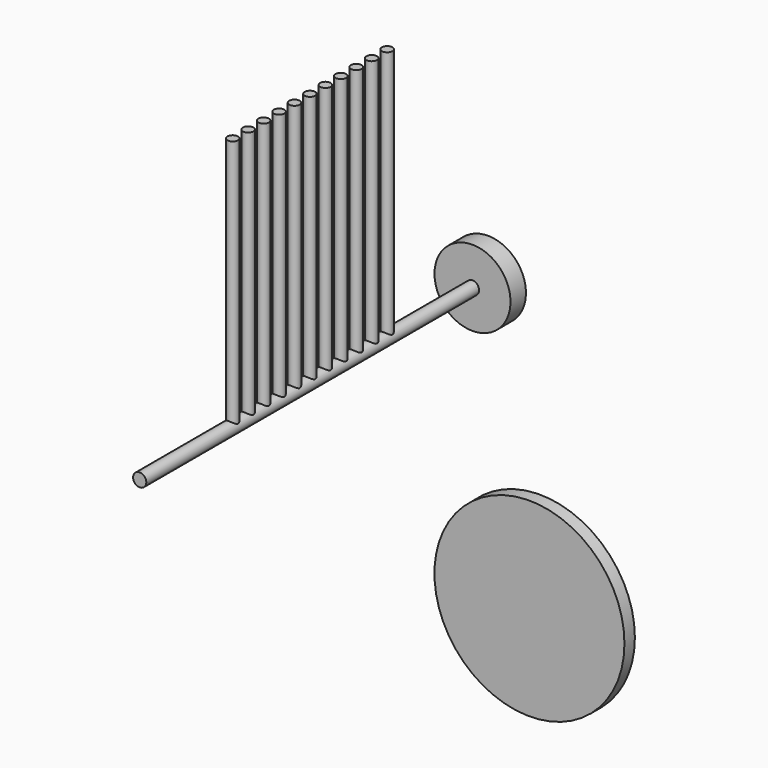
from build123d import *

# Parameters (mm, degrees)
F0_R     = 3.470275
F1_DEPTH = 112
F2_R     = 2.789366
F3_DEPTH = 133.35
F4_R     = 20
F4_R_2   = 3.470275
F5_DEPTH = 5.08
F6_R     = 50
F7_DEPTH = 6.858


with BuildPart() as f1:
    # F0 (on Front) → F1 (new body, symmetric)
    with BuildSketch(Plane.XZ):
        Circle(F0_R)
    extrude(amount=F1_DEPTH, both=True)

    # F2 (on Top) → F3 (join)
    with BuildSketch(Plane.XY):
        Circle(F2_R)
        with Locations((0, 10.16)):
            Circle(F2_R)
        with Locations((0, 20.32)):
            Circle(F2_R)
        with Locations((0, 30.48)):
            Circle(F2_R)
        with Locations((0, 40.64)):
            Circle(F2_R)
        with Locations((0, 50.8)):
            Circle(F2_R)
        with Locations((0, -10.16)):
            Circle(F2_R)
        with Locations((0, -20.32)):
            Circle(F2_R)
        with Locations((0, -30.48)):
            Circle(F2_R)
        with Locations((0, -40.64)):
            Circle(F2_R)
        with Locations((0, -50.8)):
            Circle(F2_R)
    extrude(amount=F3_DEPTH)

    # F4 (on face) → F5 (join, symmetric)
    with BuildSketch(Plane(origin=(0, 112, 0), x_dir=(-1, 0, 0), z_dir=(0, 1, 0))):
        Circle(F4_R)
        Circle(F4_R_2, mode=Mode.SUBTRACT)
    extrude(amount=F5_DEPTH, both=True)


with BuildPart() as f7:
    # F6 (on Front) → F7 (new body)
    with BuildSketch(Plane.XZ):
        with Locations((120.995037, -62.964983)):
            Circle(F6_R)
    extrude(amount=F7_DEPTH)


solid = Compound([f1.part, f7.part])
